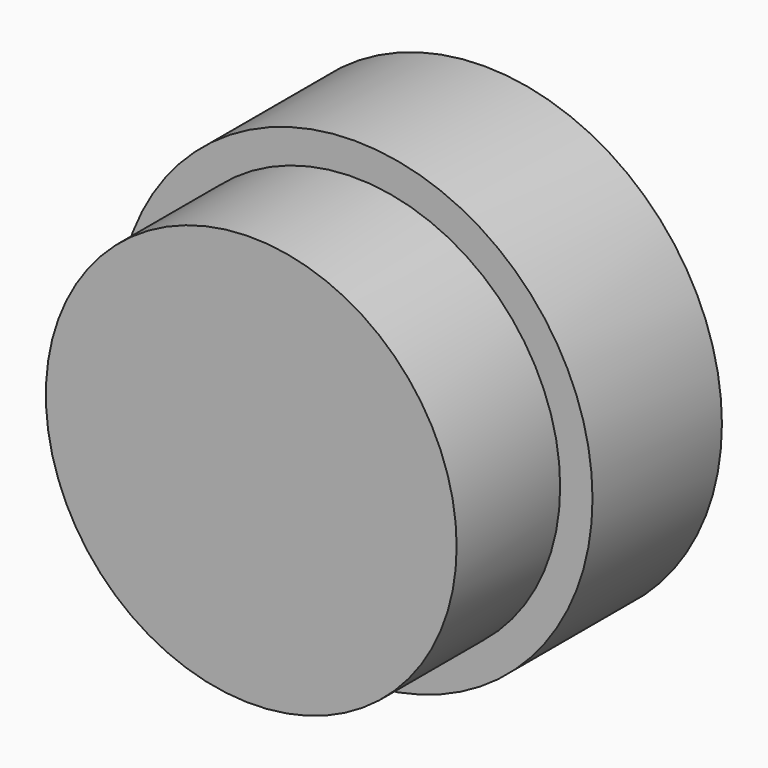
from build123d import *

# Parameters (mm, degrees)
F0_R     = 6.35
F1_DEPTH = 4
F2_R     = 7.35
F3_DEPTH = 5


with BuildPart() as f1:
    # F0 (on Front) → F1 (new body)
    with BuildSketch(Plane.XZ):
        Circle(F0_R)
    extrude(amount=F1_DEPTH)

    # F2 (on Front) → F3 (join)
    with BuildSketch(Plane.XZ):
        Circle(F2_R)
    extrude(amount=-F3_DEPTH)


solid = f1.part
